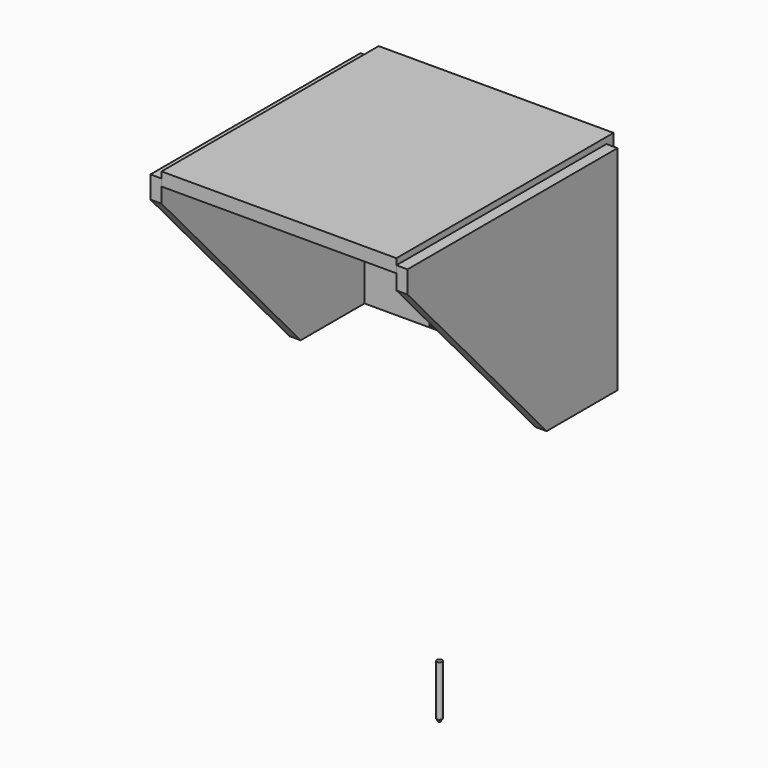
from build123d import *

# Parameters (mm, degrees)
F0_W     = 336.55
F0_H     = 388.9375
F1_DEPTH = 19.05
F2_W     = 336.55
F2_H     = 295.275
F2_R     = 38.1
F3_DEPTH = 25.4
F5_DEPTH = 15.875
F7_R     = 38.1
F8_DEPTH = 6.35


with BuildPart() as f1:
    # F0 (on Top) → F1 (new body)
    with BuildSketch(Plane.XY):
        Rectangle(F0_W, F0_H)
    extrude(amount=F1_DEPTH)


with BuildPart() as f3:
    # F2 (on face) → F3 (new body)
    with BuildSketch(Plane(origin=(0, 194.46875, 0), x_dir=(-1, 0, 0), z_dir=(0, 1, 0))):
        with Locations((0, -147.6375)):
            Rectangle(F2_W, F2_H)
        with Locations((0, -193.675)):
            Circle(F2_R, mode=Mode.SUBTRACT)
    extrude(amount=-F3_DEPTH)


with BuildPart() as f5:
    # F4 (on face) → F5 (new body)
    with BuildSketch(Plane.YZ.offset(168.275)):
        Polygon((181.76875, 10.139913), (-194.46875, 10.139913), (-194.46875, -21.610087), (54.76875, -295.275), (181.76875, -295.275), align=None)
    extrude(amount=F5_DEPTH)


with BuildPart() as f6_1:
    # F6: instance of F5
    add(f5.part.mirror(Plane.YZ))


with BuildPart() as f8:
    # F7 (on face) → F8 (new body)
    with BuildSketch(Plane.XZ.offset(-169.06875)):
        Polygon((-69.85, -85.725), (-69.85, -288.925), (0, -288.925), (69.85, -288.925), (69.85, -85.725), (0, -85.725), align=None)
        with Locations((0, -193.675)):
            Circle(F7_R, mode=Mode.SUBTRACT)
    extrude(amount=F8_DEPTH)


with BuildPart() as f10:
    # F9 (on Right) → F10 (revolve)
    with BuildSketch(Plane.YZ):
        Polygon((96.67875, -660.4), (92.86875, -660.4), (92.86875, -736.6), (94.45625, -736.6), (96.67875, -732.750517), align=None)
    revolve(axis=Axis((0, 92.86875, -698.5), (0, 0, -1)))


solid = Compound([f1.part, f3.part, f5.part, f6_1.part, f8.part, f10.part])
